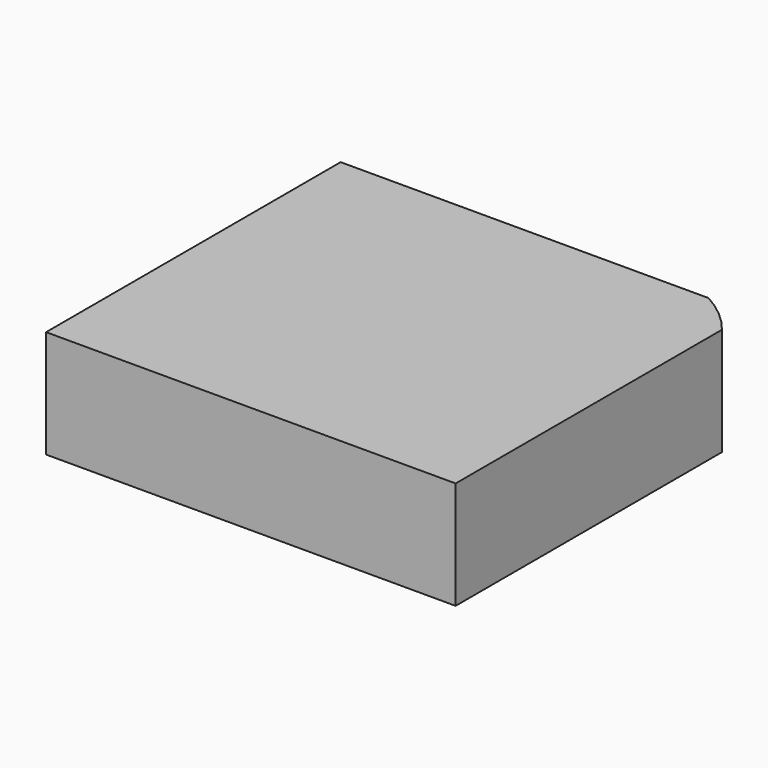
from build123d import *

# Parameters (mm, degrees)
F0_R     = 6.7719782622
F0_R_2   = 8.3533138705
F0_R_3   = 6.1041777079
F0_R_4   = 8.3887330486
F1_DEPTH = 25.4


with BuildPart() as f1:
    # F0 (on Top) → F1 (new body)
    with BuildSketch(Plane.XY):
        with BuildLine():
            Line((-32.8200038305, 42.44145751), (-41.6555032134, 42.44145751))
            Line((-41.6555032134, 42.44145751), (-41.6555032134, -44.3277396262))
            Line((-41.6555032134, -44.3277396262), (22.8379998192, -44.3277396262))
            ThreePointArc((22.8379998192, -44.3277396262), (20.9083950431, -42.8052736986), (19.896760613, -40.5652127903))
            ThreePointArc((19.896760613, -40.5652127903), (13.4825359621, -22.579296483), (30.9998358882, -30.1805902272))
            ThreePointArc((30.9998358882, -30.1805902272), (30.4866063296, -33.408568792), (28.9975340915, -36.3181931773))
            ThreePointArc((28.9975340915, -36.3181931773), (29.874119418, -37.8625041543), (30.1782038226, -39.6120272044))
            ThreePointArc((30.1782038226, -39.6120272044), (29.3555372579, -42.4145470817), (27.148595431, -44.3277396262))
            Line((27.148595431, -44.3277396262), (54.8595115542, -44.3277396262))
            Line((54.8595115542, -44.3277396262), (54.8595115542, -4.5629904419))
            ThreePointArc((54.8595115542, -4.5629904419), (6.013621036, -5.5798406926), (15.0086154157, 42.44145751))
            Line((15.0086154157, 42.44145751), (-17.7953552672, 42.44145751))
            ThreePointArc((-17.7953552672, 42.44145751), (-14.9723120672, 38.6078738284), (-13.9725065602, 33.9531637728))
            ThreePointArc((-13.9725065602, 33.9531637728), (-29.9623896044, 23.6177962912), (-32.8200038305, 42.44145751))
        make_face()
        with Locations((-27.5083519518, -21.0635364056)):
            Circle(F0_R, mode=Mode.SUBTRACT)
        with Locations((-6.7591932602, -11.9464835152)):
            Circle(F0_R_2, mode=Mode.SUBTRACT)
        with Locations((-14.6187227219, 17.9197248071)):
            Circle(F0_R_3, mode=Mode.SUBTRACT)
        with BuildLine():
            Line((-17.7953552672, 42.44145751), (-32.8200038305, 42.44145751))
            ThreePointArc((-32.8200038305, 42.44145751), (-29.9623896044, 23.6177962912), (-13.9725065602, 33.9531637728))
            ThreePointArc((-13.9725065602, 33.9531637728), (-14.9723120672, 38.6078738284), (-17.7953552672, 42.44145751))
        make_face()
        with Locations((-27.5083519518, -21.0635364056)):
            Circle(F0_R)
        with BuildLine():
            Line((45.0381728893, 42.44145751), (15.0086154157, 42.44145751))
            ThreePointArc((15.0086154157, 42.44145751), (6.013621036, -5.5798406926), (54.8595115542, -4.5629904419))
            Line((54.8595115542, -4.5629904419), (54.8595115542, 34.1148168594))
            ThreePointArc((54.8595115542, 34.1148168594), (50.3791480539, 38.7856863253), (45.0381728893, 42.44145751))
        make_face()
        with Locations((28.137113899, 22.949822247)):
            Circle(F0_R_4, mode=Mode.SUBTRACT)
        with Locations((28.137113899, 22.949822247)):
            Circle(F0_R_4)
        with BuildLine():
            ThreePointArc((30.9998358882, -30.1805902272), (13.4825359621, -22.579296483), (19.896760613, -40.5652127903))
            ThreePointArc((19.896760613, -40.5652127903), (22.800679551, -34.913551041), (28.9975340915, -36.3181931773))
            ThreePointArc((28.9975340915, -36.3181931773), (30.4866063296, -33.408568792), (30.9998358882, -30.1805902272))
        make_face()
        with BuildLine():
            ThreePointArc((19.896760613, -40.5652127903), (20.9083950431, -42.8052736986), (22.8379998192, -44.3277396262))
            Line((22.8379998192, -44.3277396262), (27.148595431, -44.3277396262))
            ThreePointArc((27.148595431, -44.3277396262), (29.3555372579, -42.4145470817), (30.1782038226, -39.6120272044))
            ThreePointArc((30.1782038226, -39.6120272044), (29.874119418, -37.8625041543), (28.9975340915, -36.3181931773))
            ThreePointArc((28.9975340915, -36.3181931773), (24.9932976251, -39.6120272044), (19.896760613, -40.5652127903))
        make_face()
        with Locations((-6.7591932602, -11.9464835152)):
            Circle(F0_R_2)
        with BuildLine():
            ThreePointArc((28.9975340915, -36.3181931773), (22.800679551, -34.913551041), (19.896760613, -40.5652127903))
            ThreePointArc((19.896760613, -40.5652127903), (24.9932976251, -39.6120272044), (28.9975340915, -36.3181931773))
        make_face()
        with Locations((-14.6187227219, 17.9197248071)):
            Circle(F0_R_3)
    extrude(amount=F1_DEPTH)


solid = f1.part
